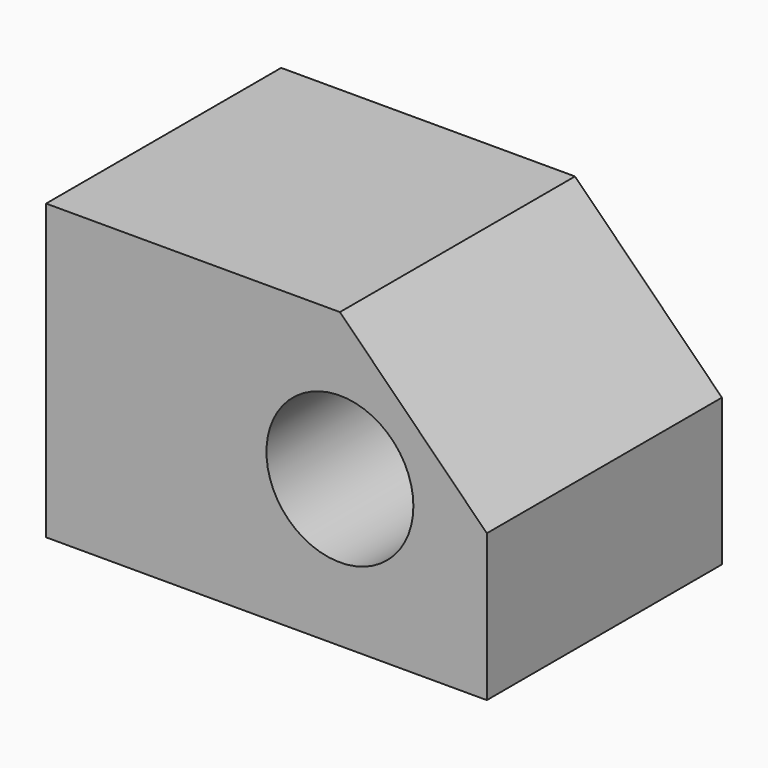
from build123d import *

# Parameters (mm, degrees)
F0_W     = 76.2
F0_H     = 50.8
F1_DEPTH = 50.8
F2_SIZE  = 25.4
F3_R     = 12.7
F4_DEPTH = 50.8


with BuildPart() as f1:
    # F0 (on Front) → F1 (new body)
    with BuildSketch(Plane.XZ):
        with Locations((-38.1, 25.4)):
            Rectangle(F0_W, F0_H)
    extrude(amount=F1_DEPTH)

    # F2
    f2_edges = [f1.edges().sort_by_distance(p)[0] for p in [
        (0, -25.4, 50.8),
    ]]
    chamfer(f2_edges, length=F2_SIZE)

    # F3 (on face) → F4 (cut)
    with BuildSketch(Plane.XZ.offset(50.8)):
        with Locations((-25.4, 25.4)):
            Circle(F3_R)
    extrude(amount=-F4_DEPTH, mode=Mode.SUBTRACT)


solid = f1.part
